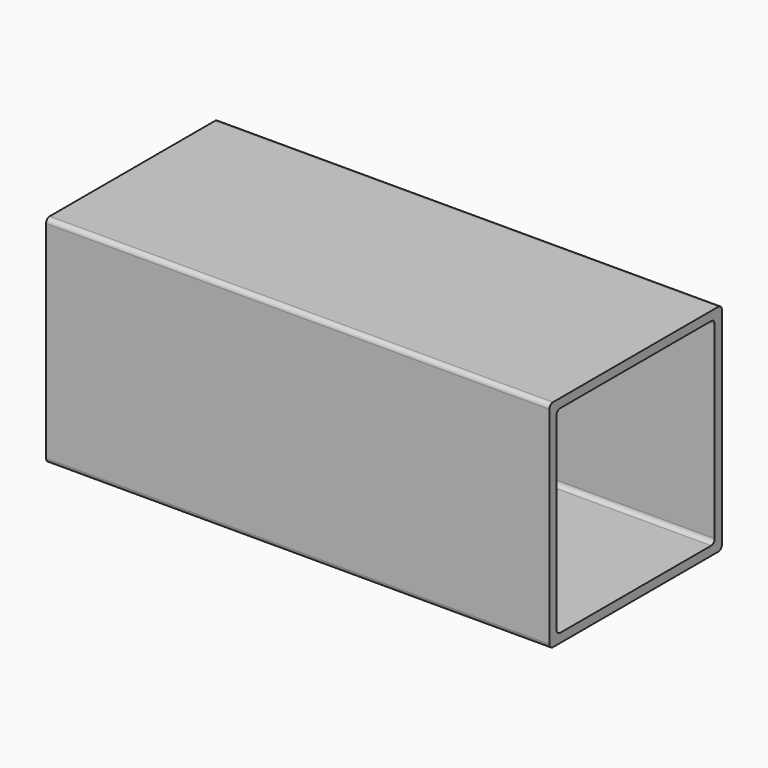
from build123d import *

# Parameters (mm, degrees)
F1_DEPTH = 355.6


with BuildPart() as f1:
    # F0 (on Right) → F1 (new body)
    with BuildSketch(Plane.YZ):
        with BuildLine():
            Line((73.025, 76.2), (-73.025, 76.2))
            ThreePointArc((-73.025, 76.2), (-75.270064, 75.270064), (-76.2, 73.025))
            Line((-76.2, 73.025), (-76.2, -73.025))
            ThreePointArc((-76.2, -73.025), (-75.270064, -75.270064), (-73.025, -76.2))
            Line((-73.025, -76.2), (73.025, -76.2))
            ThreePointArc((73.025, -76.2), (75.270064, -75.270064), (76.2, -73.025))
            Line((76.2, -73.025), (76.2, 73.025))
            ThreePointArc((76.2, 73.025), (75.270064, 75.270064), (73.025, 76.2))
        make_face()
        with BuildLine():
            Line((-69.850001, -66.674999), (-69.850001, 66.675001))
            ThreePointArc((-69.850001, 66.675001), (-68.920065, 68.920065), (-66.675001, 69.850001))
            Line((-66.675001, 69.850001), (66.675001, 69.850001))
            ThreePointArc((66.675001, 69.850001), (68.920065, 68.920065), (69.850001, 66.675001))
            Line((69.850001, 66.675001), (69.850001, -66.674999))
            ThreePointArc((69.850001, -66.674999), (68.920065, -68.920063), (66.675001, -69.849999))
            Line((66.675001, -69.849999), (-66.675001, -69.849999))
            ThreePointArc((-66.675001, -69.849999), (-68.920065, -68.920063), (-69.850001, -66.674999))
        make_face(mode=Mode.SUBTRACT)
    extrude(amount=F1_DEPTH)


solid = f1.part
